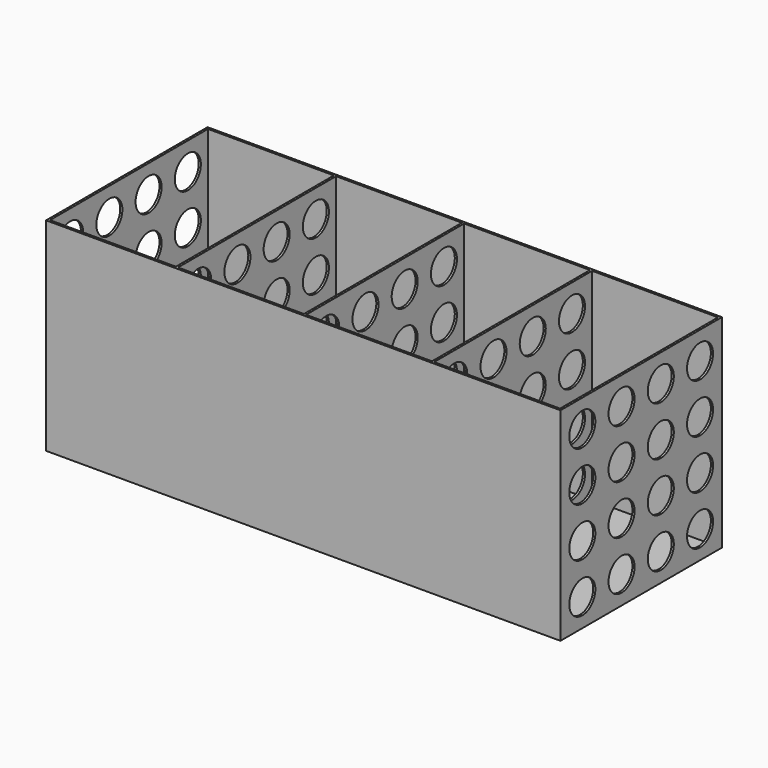
from build123d import *

# Parameters (mm, degrees)
F0_W     = 237
F0_H     = 93
F1_DEPTH = 93.5
F2_W     = 58
F2_H     = 91
F3_DEPTH = 93
F5_DEPTH = 237.001


with BuildPart() as f1:
    # F0 (on Top) → F1 (new body)
    with BuildSketch(Plane.XY):
        Rectangle(F0_W, F0_H)
    extrude(amount=F1_DEPTH)

    # F2 (on face) → F3 (cut)
    with BuildSketch(Plane.XY.offset(93.5)):
        with Locations((88.5, 0)):
            Rectangle(F2_W, F2_H)
        with Locations((29.5, 0)):
            Rectangle(F2_W, F2_H)
        with Locations((-29.5, 0)):
            Rectangle(F2_W, F2_H)
        with Locations((-88.5, 0)):
            Rectangle(F2_W, F2_H)
    extrude(amount=-F3_DEPTH, mode=Mode.SUBTRACT)

    # F4 (on face) → F5 (cut, through all)
    with BuildSketch(Plane(origin=(-118.5, 0, 0), x_dir=(0, -1, 0), z_dir=(-1, 0, 0))):
        with BuildLine():
            ThreePointArc((-26.4, 80.8), (-39.203301, 86.103301), (-33.9, 73.3))
            ThreePointArc((-33.9, 73.3), (-28.596699, 75.496699), (-26.4, 80.8))
        make_face()
        with BuildLine():
            ThreePointArc((-33.9, 65.6), (-41.4, 58.1), (-33.9, 50.6))
            Line((-33.9, 50.6), (-33.9, 58.1))
            Line((-33.9, 58.1), (-33.9, 65.6))
        make_face()
        with BuildLine():
            Line((-33.9, 58.1), (-33.9, 50.6))
            ThreePointArc((-33.9, 50.6), (-28.596699, 52.796699), (-26.4, 58.1))
            ThreePointArc((-26.4, 58.1), (-28.596699, 63.403301), (-33.9, 65.6))
            Line((-33.9, 65.6), (-33.9, 58.1))
        make_face()
        with BuildLine():
            ThreePointArc((-33.9, 42.9), (-41.4, 35.4), (-33.9, 27.9))
            Line((-33.9, 27.9), (-33.9, 35.4))
            Line((-33.9, 35.4), (-33.9, 42.9))
        make_face()
        with BuildLine():
            Line((-33.9, 35.4), (-33.9, 27.9))
            ThreePointArc((-33.9, 27.9), (-28.596699, 30.096699), (-26.4, 35.4))
            ThreePointArc((-26.4, 35.4), (-28.596699, 40.703301), (-33.9, 42.9))
            Line((-33.9, 42.9), (-33.9, 35.4))
        make_face()
        with BuildLine():
            ThreePointArc((-33.9, 20.2), (-41.4, 12.7), (-33.9, 5.2))
            Line((-33.9, 5.2), (-33.9, 12.7))
            Line((-33.9, 12.7), (-33.9, 20.2))
        make_face()
        with BuildLine():
            Line((-33.9, 12.7), (-33.9, 5.2))
            ThreePointArc((-33.9, 5.2), (-28.596699, 7.396699), (-26.4, 12.7))
            ThreePointArc((-26.4, 12.7), (-28.596699, 18.003301), (-33.9, 20.2))
            Line((-33.9, 20.2), (-33.9, 12.7))
        make_face()
        with BuildLine():
            ThreePointArc((-3.8, 80.8), (-16.603301, 86.103301), (-11.3, 73.3))
            ThreePointArc((-11.3, 73.3), (-5.996699, 75.496699), (-3.8, 80.8))
        make_face()
        with BuildLine():
            ThreePointArc((-11.3, 65.6), (-18.8, 58.1), (-11.3, 50.6))
            Line((-11.3, 50.6), (-11.3, 58.1))
            Line((-11.3, 58.1), (-11.3, 65.6))
        make_face()
        with BuildLine():
            Line((-11.3, 58.1), (-11.3, 50.6))
            ThreePointArc((-11.3, 50.6), (-5.996699, 52.796699), (-3.8, 58.1))
            ThreePointArc((-3.8, 58.1), (-5.996699, 63.403301), (-11.3, 65.6))
            Line((-11.3, 65.6), (-11.3, 58.1))
        make_face()
        with BuildLine():
            ThreePointArc((-11.3, 42.9), (-18.8, 35.4), (-11.3, 27.9))
            Line((-11.3, 27.9), (-11.3, 35.4))
            Line((-11.3, 35.4), (-11.3, 42.9))
        make_face()
        with BuildLine():
            Line((-11.3, 35.4), (-11.3, 27.9))
            ThreePointArc((-11.3, 27.9), (-5.996699, 30.096699), (-3.8, 35.4))
            ThreePointArc((-3.8, 35.4), (-5.996699, 40.703301), (-11.3, 42.9))
            Line((-11.3, 42.9), (-11.3, 35.4))
        make_face()
        with BuildLine():
            ThreePointArc((-11.3, 20.2), (-18.8, 12.7), (-11.3, 5.2))
            Line((-11.3, 5.2), (-11.3, 12.7))
            Line((-11.3, 12.7), (-11.3, 20.2))
        make_face()
        with BuildLine():
            Line((-11.3, 12.7), (-11.3, 5.2))
            ThreePointArc((-11.3, 5.2), (-5.996699, 7.396699), (-3.8, 12.7))
            ThreePointArc((-3.8, 12.7), (-5.996699, 18.003301), (-11.3, 20.2))
            Line((-11.3, 20.2), (-11.3, 12.7))
        make_face()
        with BuildLine():
            ThreePointArc((18.8, 80.8), (5.996699, 86.103301), (11.3, 73.3))
            ThreePointArc((11.3, 73.3), (16.603301, 75.496699), (18.8, 80.8))
        make_face()
        with BuildLine():
            ThreePointArc((11.3, 65.6), (3.8, 58.1), (11.3, 50.6))
            Line((11.3, 50.6), (11.3, 58.1))
            Line((11.3, 58.1), (11.3, 65.6))
        make_face()
        with BuildLine():
            Line((11.3, 58.1), (11.3, 50.6))
            ThreePointArc((11.3, 50.6), (16.603301, 52.796699), (18.8, 58.1))
            ThreePointArc((18.8, 58.1), (16.603301, 63.403301), (11.3, 65.6))
            Line((11.3, 65.6), (11.3, 58.1))
        make_face()
        with BuildLine():
            ThreePointArc((11.3, 42.9), (3.8, 35.4), (11.3, 27.9))
            Line((11.3, 27.9), (11.3, 35.4))
            Line((11.3, 35.4), (11.3, 42.9))
        make_face()
        with BuildLine():
            Line((11.3, 35.4), (11.3, 27.9))
            ThreePointArc((11.3, 27.9), (16.603301, 30.096699), (18.8, 35.4))
            ThreePointArc((18.8, 35.4), (16.603301, 40.703301), (11.3, 42.9))
            Line((11.3, 42.9), (11.3, 35.4))
        make_face()
        with BuildLine():
            ThreePointArc((11.3, 20.2), (3.8, 12.7), (11.3, 5.2))
            Line((11.3, 5.2), (11.3, 12.7))
            Line((11.3, 12.7), (11.3, 20.2))
        make_face()
        with BuildLine():
            Line((11.3, 12.7), (11.3, 5.2))
            ThreePointArc((11.3, 5.2), (16.603301, 7.396699), (18.8, 12.7))
            ThreePointArc((18.8, 12.7), (16.603301, 18.003301), (11.3, 20.2))
            Line((11.3, 20.2), (11.3, 12.7))
        make_face()
        with BuildLine():
            ThreePointArc((41.4, 80.8), (28.596699, 86.103301), (33.9, 73.3))
            ThreePointArc((33.9, 73.3), (39.203301, 75.496699), (41.4, 80.8))
        make_face()
        with BuildLine():
            ThreePointArc((33.9, 65.6), (26.4, 58.1), (33.9, 50.6))
            Line((33.9, 50.6), (33.9, 58.1))
            Line((33.9, 58.1), (33.9, 65.6))
        make_face()
        with BuildLine():
            Line((33.9, 58.1), (33.9, 50.6))
            ThreePointArc((33.9, 50.6), (39.203301, 52.796699), (41.4, 58.1))
            ThreePointArc((41.4, 58.1), (39.203301, 63.403301), (33.9, 65.6))
            Line((33.9, 65.6), (33.9, 58.1))
        make_face()
        with BuildLine():
            ThreePointArc((33.9, 42.9), (26.4, 35.4), (33.9, 27.9))
            Line((33.9, 27.9), (33.9, 35.4))
            Line((33.9, 35.4), (33.9, 42.9))
        make_face()
        with BuildLine():
            Line((33.9, 35.4), (33.9, 27.9))
            ThreePointArc((33.9, 27.9), (39.203301, 30.096699), (41.4, 35.4))
            ThreePointArc((41.4, 35.4), (39.203301, 40.703301), (33.9, 42.9))
            Line((33.9, 42.9), (33.9, 35.4))
        make_face()
        with BuildLine():
            ThreePointArc((33.9, 20.2), (26.4, 12.7), (33.9, 5.2))
            Line((33.9, 5.2), (33.9, 12.7))
            Line((33.9, 12.7), (33.9, 20.2))
        make_face()
        with BuildLine():
            Line((33.9, 12.7), (33.9, 5.2))
            ThreePointArc((33.9, 5.2), (39.203301, 7.396699), (41.4, 12.7))
            ThreePointArc((41.4, 12.7), (39.203301, 18.003301), (33.9, 20.2))
            Line((33.9, 20.2), (33.9, 12.7))
        make_face()
    extrude(amount=-F5_DEPTH, mode=Mode.SUBTRACT)


solid = f1.part
